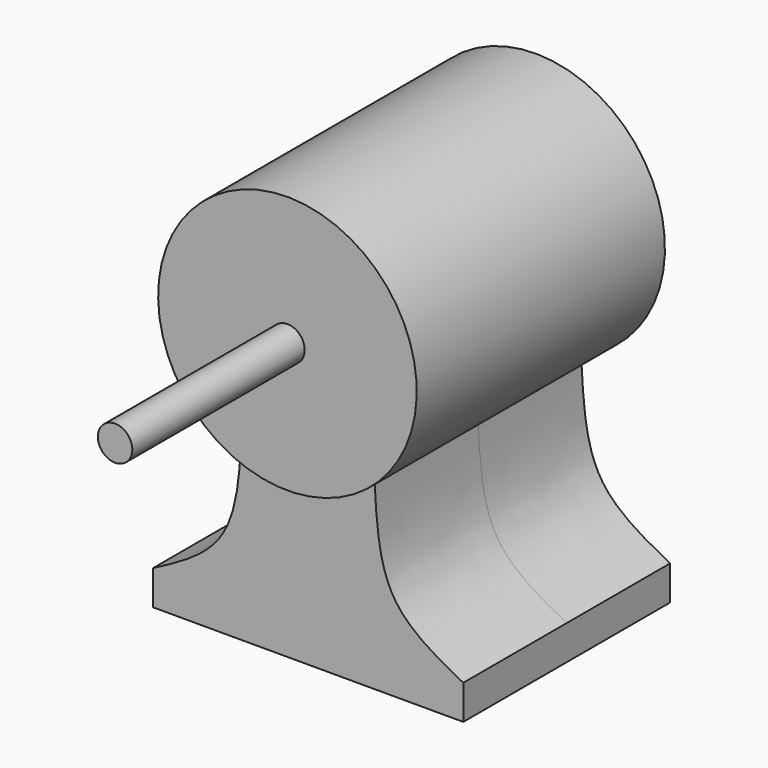
from build123d import *

# Parameters (mm, degrees)
F1_DEPTH = 90
F2_DEPTH = 75
F3_R     = 10
F4_DEPTH = 125
F6_D     = 17.5
F6_DEPTH = 200
F6_TIP   = 5.2575304165


with BuildPart() as f1:
    # F0 (on Front) → F1 (new body, symmetric)
    with BuildSketch(Plane.XZ):
        with BuildLine():
            ThreePointArc((-38.5871816571, 95.6880305716), (0, 85), (38.5871816571, 95.6880305716))
            ThreePointArc((38.5871816571, 95.6880305716), (65.2649930065, 123.0475888762), (75, 160))
            ThreePointArc((75, 160), (-36.9524111238, 225.2649930065), (-38.5871816571, 95.6880305716))
        make_face()
    extrude(amount=F1_DEPTH, both=True)

    # F0 (on Front) → F2 (join, symmetric)
    with BuildSketch(Plane.XZ):
        Polygon((-90, -10), (90, -10), (90, 10), (50, 10), (0, 10), (-50, 10), (-90, 10), align=None)
        with BuildLine():
            Line((50, 10), (90, 10))
            add(Edge.make_bspline(
                [(90, 10), (74.3035884973, 18.2071101409), (58.6071769946, 26.4142202817), (50, 40)],
                knots=[0, 0, 0, 0, 0.4839662752, 0.4839662752, 0.4839662752, 0.4839662752], degree=3))
            Line((50, 40), (50, 10))
        make_face()
        with BuildLine():
            add(Edge.make_bspline(
                [(-90, 10), (-74.3035884973, 18.2071101409), (-58.6071769946, 26.4142202817), (-50, 40)],
                knots=[0, 0, 0, 0, 0.4839662752, 0.4839662752, 0.4839662752, 0.4839662752], degree=3))
            Line((-90, 10), (-50, 10))
            Line((-50, 10), (-50, 40))
        make_face()
        with BuildLine():
            Line((0, 10), (50, 10))
            Line((50, 10), (50, 40))
            add(Edge.make_bspline(
                [(50, 40), (40.8225142283, 54.4859691093), (39.7048479427, 75.0869998404), (38.5871816571, 95.6880305716)],
                knots=[0.4839662752, 0.4839662752, 0.4839662752, 0.4839662752, 1, 1, 1, 1], degree=3))
            ThreePointArc((38.5871816571, 95.6880305716), (0, 85), (-38.5871816571, 95.6880305716))
            add(Edge.make_bspline(
                [(-50, 40), (-40.8225142283, 54.4859691093), (-39.7048479427, 75.0869998404), (-38.5871816571, 95.6880305716)],
                knots=[0.4839662752, 0.4839662752, 0.4839662752, 0.4839662752, 1, 1, 1, 1], degree=3))
            Line((-50, 40), (-50, 10))
            Line((-50, 10), (0, 10))
        make_face()
        with BuildLine():
            ThreePointArc((-38.5871816571, 95.6880305716), (0, 85), (38.5871816571, 95.6880305716))
            ThreePointArc((38.5871816571, 95.6880305716), (65.2649930065, 123.0475888762), (75, 160))
            ThreePointArc((75, 160), (-36.9524111238, 225.2649930065), (-38.5871816571, 95.6880305716))
        make_face()
    extrude(amount=F2_DEPTH, both=True)

    # F3 (on face) → F4 (join)
    with BuildSketch(Plane.XZ.offset(90)):
        with Locations((0, 160)):
            Circle(F3_R)
    extrude(amount=F4_DEPTH)

    # F6
    with Locations(Plane(origin=(0, 0, -10), x_dir=(1, 0, 0), z_dir=(0, 0, -1))):
        with Locations((0, 0)):
            Hole(F6_D / 2, depth=F6_DEPTH)
            with Locations((0, 0, -(F6_DEPTH + F6_TIP / 2))):  # 118° drill point
                Cone(0, F6_D / 2, F6_TIP, mode=Mode.SUBTRACT)


solid = f1.part
